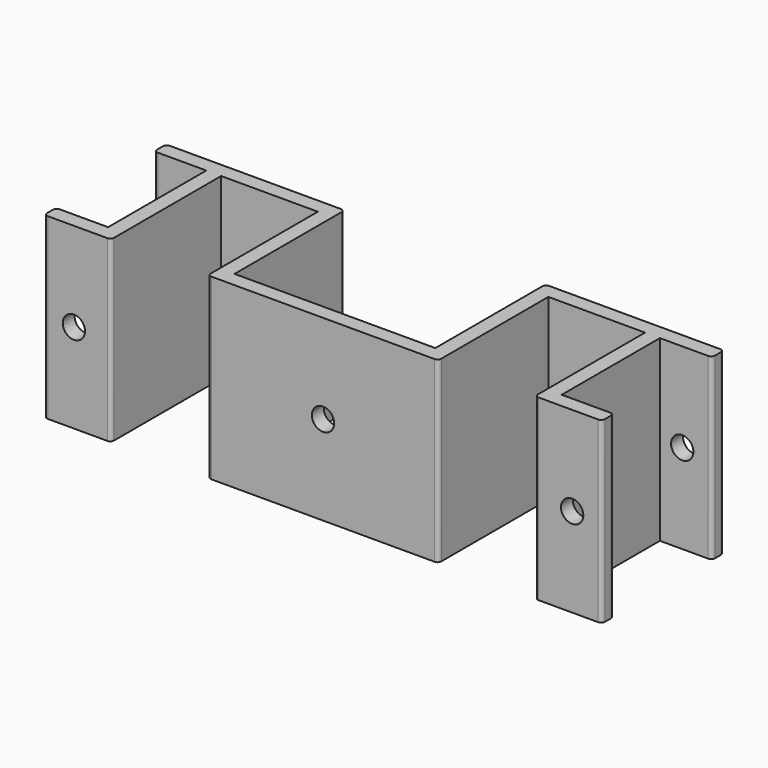
from build123d import *

# Parameters (mm, degrees)
F1_DEPTH = 24
F2_R     = 1.5
F3_DEPTH = 25
F4_R     = 0.5


with BuildPart() as f1:
    # F0 (on Top) → F1 (new body)
    with BuildSketch(Plane.XY):
        Polygon((-15.5, 0), (0, 0), (15.5, 0), (15.5, 18.5), (28.5, 18.5), (28.5, 0), (37.5, 0), (37.5, 2), (30.5, 2), (30.5, 18.5), (37.5, 18.5), (37.5, 20.5), (13.5, 20.5), (13.5, 2), (0, 2), (-13.5, 2), (-13.5, 20.5), (-37.5, 20.5), (-37.5, 18.5), (-30.5, 18.5), (-30.5, 2), (-37.5, 2), (-37.5, 0), (-28.5, 0), (-28.5, 18.5), (-15.5, 18.5), align=None)
    extrude(amount=F1_DEPTH)

    # F2 (on face) → F3 (cut)
    with BuildSketch(Plane.XZ):
        with Locations((-33.5, 12)):
            Circle(F2_R)
        with Locations((0, 12)):
            Circle(F2_R)
        with Locations((33.5, 12)):
            Circle(F2_R)
    extrude(amount=-F3_DEPTH, mode=Mode.SUBTRACT)

    # F4
    f4_edges = [f1.edges().sort_by_distance(p)[0] for p in [
        (-13.5, 20.5, 12),
        (13.5, 20.5, 12),
        (15.5, 0, 12),
        (-28.5, 0, 12),
        (-15.5, 0, 12),
        (28.5, 0, 12),
        (37.5, 20.5, 12),
        (37.5, 18.5, 12),
        (37.5, 2, 12),
        (37.5, 0, 12),
        (-37.5, 20.5, 12),
        (-37.5, 18.5, 12),
        (-37.5, 2, 12),
        (-37.5, 0, 12),
    ]]
    fillet(f4_edges, radius=F4_R)


solid = f1.part
